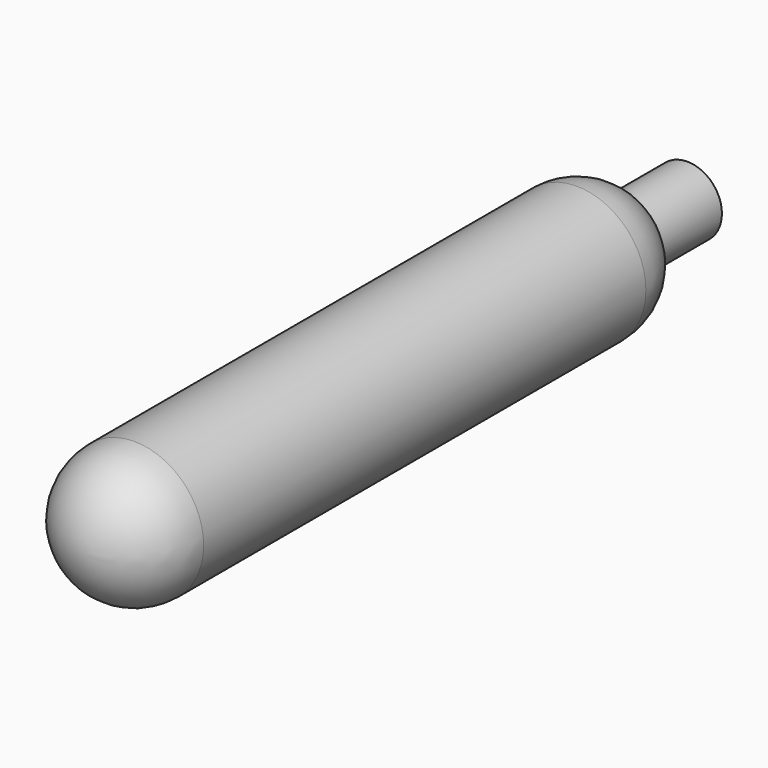
from build123d import *

# Parameters (mm, degrees)
F0_R     = 6.35
F1_DEPTH = 63.5
F2_R     = 6.35
F3_R     = 3.175
F4_DEPTH = 6.35


with BuildPart() as f1:
    # F0 (on Front) → F1 (new body)
    with BuildSketch(Plane.XZ):
        Circle(F0_R)
    extrude(amount=F1_DEPTH)

    # F2
    f2_edges = [f1.edges().sort_by_distance(p)[0] for p in [
        (-6.35, -63.5, 0),
        (-6.35, 0, 0),
    ]]
    fillet(f2_edges, radius=F2_R)

    # F3 (on Front) → F4 (join, symmetric)
    with BuildSketch(Plane.XZ):
        Circle(F3_R)
    extrude(amount=F4_DEPTH, both=True)


solid = f1.part
